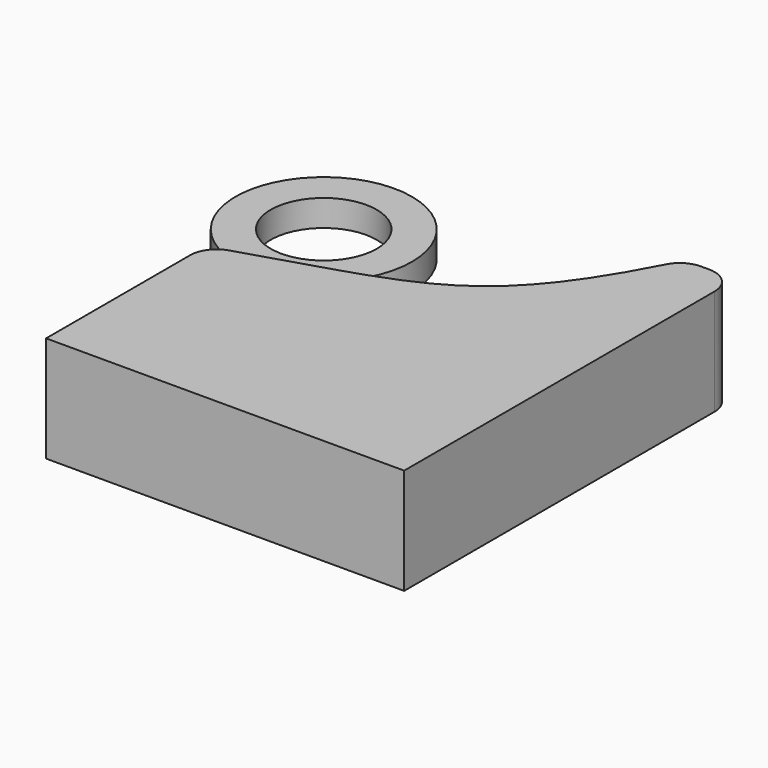
from build123d import *

# Parameters (mm, degrees)
F0_R     = 21.1640980972
F0_R_2   = 12.7
F1_DEPTH = 6.35
F2_W     = 73.6595354974
F2_H     = 47.7900449187
F3_DEPTH = 25.4
F4_R     = 6.35
F5_R     = 6.35


with BuildPart() as f1:
    # F0 (on Top) → F1 (new body)
    with BuildSketch(Plane.XY):
        with Locations((-32.8571312129, 27.7844518423)):
            Circle(F0_R)
        with Locations((-32.8571312129, 27.7844518423)):
            Circle(F0_R_2, mode=Mode.SUBTRACT)
    extrude(amount=F1_DEPTH)


with BuildPart() as f3:
    # F2 (on Top) → F3 (new body)
    with BuildSketch(Plane.XY):
        with BuildLine():
            add(Edge.make_bspline(
                [(50.6982468069, 31.5738394856), (30.7239089161, -8.618613705), (17.7531167865, -6.5306234173), (-22.9612886906, -20.0392510742)],
                knots=[0, 0, 0, 0, 89.9424165054, 89.9424165054, 89.9424165054, 89.9424165054], degree=3))
            Line((-22.9612886906, -20.0392510742), (50.6982468069, -20.0392510742))
            Line((50.6982468069, -20.0392510742), (50.6982468069, 31.5738394856))
        make_face()
        Polygon((50.6982468069, 31.5738394856), (50.6982468069, -20.0392510742), (50.6982468069, -67.8292959929), (62.9295110703, -67.8292959929), (62.9295110703, 31.5738394856), align=None)
        with Locations((13.8684790581, -43.9342735335)):
            Rectangle(F2_W, F2_H)
    extrude(amount=F3_DEPTH)

    # F4
    f4_edges = [f3.edges().sort_by_distance(p)[0] for p in [
        (-22.961289, -20.039251, 12.7),
        (50.698247, 31.573839, 12.7),
    ]]
    fillet(f4_edges, radius=F4_R)

    # F5
    f5_edges = [f3.edges().sort_by_distance(p)[0] for p in [
        (62.929511, 31.573839, 12.7),
    ]]
    fillet(f5_edges, radius=F5_R)


with BuildPart() as f6_1:
    # F6: copy of F1
    add(f1.part)


solid = Compound([f1.part, f3.part, f6_1.part])
